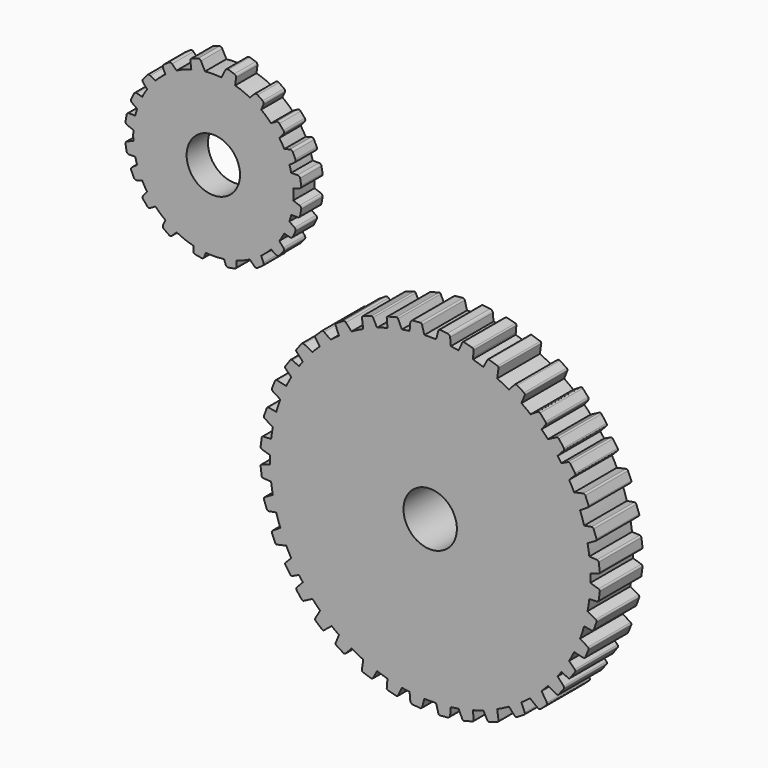
from build123d import *

# Parameters (mm, degrees)
F0_R     = 38.1
F0_R_2   = 6.35
F1_DEPTH = 12.7
F2_R     = 19.05
F2_R_2   = 6.35
F3_DEPTH = 6.35
F5_DEPTH = 12.7
F7_DEPTH = 6.35


with BuildPart() as f1:
    # F0 (on Front) → F1 (new body)
    with BuildSketch(Plane.XZ):
        Circle(F0_R)
        Circle(F0_R_2, mode=Mode.SUBTRACT)
    extrude(amount=F1_DEPTH)

    # F4 (on Front) → F5 (join)
    with BuildSketch(Plane.XZ):
        with BuildLine():
            ThreePointArc((-10.07119, 35.711777), (-9.928923, 35.465363), (-9.648711, 35.415954))
            Line((-9.648711, 35.415954), (-6.583277, 36.237335))
            ThreePointArc((-6.583277, 36.237335), (-6.365312, 36.42023), (-6.365312, 36.704764))
            Line((-6.365312, 36.704764), (-7.65398, 39.468323))
            ThreePointArc((-7.65398, 39.468323), (-7.816806, 39.631148), (-8.0462, 39.651218))
            Line((-8.0462, 39.651218), (-10.088725, 39.103925))
            ThreePointArc((-10.088725, 39.103925), (-10.277351, 38.971847), (-10.336949, 38.749423))
            Line((-10.336949, 38.749423), (-10.198242, 37.163988))
            Line((-10.198242, 37.163988), (-10.111322, 36.170487))
            Line((-10.111322, 36.170487), (-10.07119, 35.711777))
        make_face()
        with BuildLine():
            ThreePointArc((-15.827978, 33.884392), (-15.673064, 33.645726), (-15.390659, 33.610985))
            Line((-15.390659, 33.610985), (-12.372188, 34.590977))
            ThreePointArc((-12.372188, 34.590977), (-12.164048, 34.784981), (-12.178874, 35.069129))
            Line((-12.178874, 35.069129), (-13.60979, 37.761786))
            ThreePointArc((-13.60979, 37.761786), (-13.780879, 37.915906), (-14.011007, 37.923996))
            Line((-14.011007, 37.923996), (-16.02224, 37.271019))
            ThreePointArc((-16.02224, 37.271019), (-16.203728, 37.129292), (-16.251656, 36.904065))
            Line((-16.251656, 36.904065), (-15.827978, 33.884392))
        make_face()
        with BuildLine():
            ThreePointArc((-21.383831, 30.540698), (-21.12448, 30.300103), (-20.773465, 30.344126))
            Line((-20.773465, 30.344126), (-18.251786, 31.928953))
            ThreePointArc((-18.251786, 31.928953), (-18.059882, 32.226144), (-18.164189, 32.564181))
            Line((-18.164189, 32.564181), (-20.050726, 34.648498))
            ThreePointArc((-20.050726, 34.648498), (-20.355475, 34.809524), (-20.692432, 34.736988))
            Line((-20.692432, 34.736988), (-22.305773, 33.723034))
            ThreePointArc((-22.305773, 33.723034), (-22.481449, 33.496972), (-22.470716, 33.210876))
            Line((-22.470716, 33.210876), (-21.383831, 30.540698))
        make_face()
        with BuildLine():
            ThreePointArc((-29.815604, 22.550321), (-29.488942, 22.41452), (-29.174939, 22.577467))
            Line((-29.174939, 22.577467), (-27.358798, 24.938012))
            ThreePointArc((-27.358798, 24.938012), (-27.281785, 25.283292), (-27.496782, 25.564229))
            Line((-27.496782, 25.564229), (-30.052239, 26.898699))
            ThreePointArc((-30.052239, 26.898699), (-30.336039, 26.936433), (-30.577697, 26.782916))
            Line((-30.577697, 26.782916), (-31.78331, 25.21591))
            ThreePointArc((-31.78331, 25.21591), (-31.869753, 24.942975), (-31.760532, 24.678329))
            Line((-31.760532, 24.678329), (-29.815604, 22.550321))
        make_face()
        with BuildLine():
            ThreePointArc((-32.350165, 18.252706), (-32.017735, 18.131712), (-31.711366, 18.308594))
            Line((-31.711366, 18.308594), (-30.003057, 20.748312))
            ThreePointArc((-30.003057, 20.748312), (-29.941626, 21.096702), (-30.169022, 21.367702))
            Line((-30.169022, 21.367702), (-32.781825, 22.586072))
            ThreePointArc((-32.781825, 22.586072), (-33.067033, 22.611024), (-33.301555, 22.446811))
            Line((-33.301555, 22.446811), (-34.435585, 20.827247))
            ThreePointArc((-34.435585, 20.827247), (-34.509684, 20.550705), (-34.38869, 20.291231))
            Line((-34.38869, 20.291231), (-32.350165, 18.252706))
        make_face()
        with BuildLine():
            ThreePointArc((-36.866879, 6.781246), (-36.51446, 6.750413), (-36.264311, 7.000563))
            Line((-36.264311, 7.000563), (-35.245657, 9.799292))
            ThreePointArc((-35.245657, 9.799292), (-35.276489, 10.151711), (-35.566276, 10.354622))
            Line((-35.566276, 10.354622), (-38.405388, 10.855234))
            ThreePointArc((-38.405388, 10.855234), (-38.687336, 10.805518), (-38.871365, 10.586202))
            Line((-38.871365, 10.586202), (-39.54758, 8.728315))
            ThreePointArc((-39.54758, 8.728315), (-39.54758, 8.442017), (-39.363552, 8.222701))
            Line((-39.363552, 8.222701), (-36.866879, 6.781246))
        make_face()
        with BuildLine():
            ThreePointArc((-37.288886, 0.733598), (-36.93837, 0.78143), (-36.749704, 1.080687))
            Line((-36.749704, 1.080687), (-36.374907, 4.035356))
            ThreePointArc((-36.374907, 4.035356), (-36.482879, 4.372241), (-36.81035, 4.506075))
            Line((-36.81035, 4.506075), (-39.68989, 4.366719))
            ThreePointArc((-39.68989, 4.366719), (-39.953874, 4.255909), (-40.08487, 4.001338))
            Line((-40.08487, 4.001338), (-40.333673, 2.039934))
            ThreePointArc((-40.333673, 2.039934), (-40.270387, 1.760719), (-40.042431, 1.587507))
            Line((-40.042431, 1.587507), (-37.288886, 0.733598))
        make_face()
        with BuildLine():
            ThreePointArc((-35.057858, 13.062086), (-34.707093, 13.016113), (-34.446408, 13.255263))
            Line((-34.446408, 13.255263), (-33.308233, 16.007554))
            ThreePointArc((-33.308233, 16.007554), (-33.323869, 16.360973), (-33.604653, 16.576169))
            Line((-33.604653, 16.576169), (-36.419586, 17.198519))
            ThreePointArc((-36.419586, 17.198519), (-36.703413, 17.160986), (-36.896711, 16.949794))
            Line((-36.896711, 16.949794), (-37.652268, 15.122735))
            ThreePointArc((-37.652268, 15.122735), (-37.664591, 14.836703), (-37.490173, 14.609668))
            Line((-37.490173, 14.609668), (-35.057858, 13.062086))
        make_face()
        with BuildLine():
            ThreePointArc((-4.971879, 36.936362), (-4.850885, 36.603932), (-4.518455, 36.482938))
            Line((-4.518455, 36.482938), (-1.551443, 36.742518))
            ThreePointArc((-1.551443, 36.742518), (-1.245073, 36.9194), (-1.183643, 37.26779))
            Line((-1.183643, 37.26779), (-1.929795, 40.052467))
            ThreePointArc((-1.929795, 40.052467), (-2.094008, 40.286988), (-2.370551, 40.361087))
            Line((-2.370551, 40.361087), (-4.099498, 40.209824))
            ThreePointArc((-4.099498, 40.209824), (-4.537451, 40.005603), (-4.741671, 39.56765))
            Line((-4.741671, 39.56765), (-4.971879, 36.936362))
        make_face()
        with BuildLine():
            ThreePointArc((9.648711, 35.415954), (9.928923, 35.465363), (10.07119, 35.711777))
            Line((10.07119, 35.711777), (10.111322, 36.170487))
            Line((10.111322, 36.170487), (10.198242, 37.163988))
            Line((10.198242, 37.163988), (10.336949, 38.749423))
            ThreePointArc((10.336949, 38.749423), (10.277351, 38.971847), (10.088725, 39.103925))
            Line((10.088725, 39.103925), (8.0462, 39.651218))
            ThreePointArc((8.0462, 39.651218), (7.816806, 39.631148), (7.65398, 39.468323))
            Line((7.65398, 39.468323), (6.365312, 36.704764))
            ThreePointArc((6.365312, 36.704764), (6.365312, 36.42023), (6.583277, 36.237335))
            Line((6.583277, 36.237335), (9.648711, 35.415954))
        make_face()
        with BuildLine():
            ThreePointArc((2.370551, 40.361087), (2.094008, 40.286988), (1.929795, 40.052467))
            Line((1.929795, 40.052467), (1.183643, 37.26779))
            ThreePointArc((1.183643, 37.26779), (1.245073, 36.9194), (1.551443, 36.742518))
            Line((1.551443, 36.742518), (4.518455, 36.482938))
            ThreePointArc((4.518455, 36.482938), (4.850885, 36.603932), (4.971879, 36.936362))
            Line((4.971879, 36.936362), (4.741671, 39.56765))
            ThreePointArc((4.741671, 39.56765), (4.537451, 40.005603), (4.099498, 40.209824))
            Line((4.099498, 40.209824), (2.370551, 40.361087))
        make_face()
        with BuildLine():
            ThreePointArc((39.363552, 8.222701), (39.54758, 8.442017), (39.54758, 8.728315))
            Line((39.54758, 8.728315), (38.871365, 10.586202))
            ThreePointArc((38.871365, 10.586202), (38.687336, 10.805518), (38.405388, 10.855234))
            Line((38.405388, 10.855234), (35.566276, 10.354622))
            ThreePointArc((35.566276, 10.354622), (35.276489, 10.151711), (35.245657, 9.799292))
            Line((35.245657, 9.799292), (36.264311, 7.000563))
            ThreePointArc((36.264311, 7.000563), (36.51446, 6.750413), (36.866879, 6.781246))
            Line((36.866879, 6.781246), (39.363552, 8.222701))
        make_face()
        with BuildLine():
            ThreePointArc((31.711366, 18.308594), (32.017735, 18.131712), (32.350165, 18.252706))
            Line((32.350165, 18.252706), (34.38869, 20.291231))
            ThreePointArc((34.38869, 20.291231), (34.509684, 20.550705), (34.435585, 20.827247))
            Line((34.435585, 20.827247), (33.301555, 22.446811))
            ThreePointArc((33.301555, 22.446811), (33.067033, 22.611024), (32.781825, 22.586072))
            Line((32.781825, 22.586072), (30.169022, 21.367702))
            ThreePointArc((30.169022, 21.367702), (29.941626, 21.096702), (30.003057, 20.748312))
            Line((30.003057, 20.748312), (31.711366, 18.308594))
        make_face()
        with BuildLine():
            ThreePointArc((40.08487, 4.001338), (39.953874, 4.255909), (39.68989, 4.366719))
            Line((39.68989, 4.366719), (36.81035, 4.506075))
            ThreePointArc((36.81035, 4.506075), (36.482879, 4.372241), (36.374907, 4.035356))
            Line((36.374907, 4.035356), (36.749704, 1.080687))
            ThreePointArc((36.749704, 1.080687), (36.93837, 0.78143), (37.288886, 0.733598))
            Line((37.288886, 0.733598), (40.042431, 1.587507))
            ThreePointArc((40.042431, 1.587507), (40.270387, 1.760719), (40.333673, 2.039934))
            Line((40.333673, 2.039934), (40.08487, 4.001338))
        make_face()
        with BuildLine():
            ThreePointArc((31.760532, 24.678329), (31.869753, 24.942975), (31.78331, 25.21591))
            Line((31.78331, 25.21591), (30.577697, 26.782916))
            ThreePointArc((30.577697, 26.782916), (30.336039, 26.936433), (30.052239, 26.898699))
            Line((30.052239, 26.898699), (27.496782, 25.564229))
            ThreePointArc((27.496782, 25.564229), (27.281785, 25.283292), (27.358798, 24.938012))
            Line((27.358798, 24.938012), (29.174939, 22.577467))
            ThreePointArc((29.174939, 22.577467), (29.488942, 22.41452), (29.815604, 22.550321))
            Line((29.815604, 22.550321), (31.760532, 24.678329))
        make_face()
        with BuildLine():
            ThreePointArc((22.470716, 33.210876), (22.481449, 33.496972), (22.305773, 33.723034))
            Line((22.305773, 33.723034), (20.692432, 34.736988))
            ThreePointArc((20.692432, 34.736988), (20.355475, 34.809524), (20.050726, 34.648498))
            Line((20.050726, 34.648498), (18.164189, 32.564181))
            ThreePointArc((18.164189, 32.564181), (18.059882, 32.226144), (18.251786, 31.928953))
            Line((18.251786, 31.928953), (20.773465, 30.344126))
            ThreePointArc((20.773465, 30.344126), (21.12448, 30.300103), (21.383831, 30.540698))
            Line((21.383831, 30.540698), (22.470716, 33.210876))
        make_face()
        with BuildLine():
            ThreePointArc((14.011007, 37.923996), (13.780879, 37.915906), (13.60979, 37.761786))
            Line((13.60979, 37.761786), (12.178874, 35.069129))
            ThreePointArc((12.178874, 35.069129), (12.164048, 34.784981), (12.372188, 34.590977))
            Line((12.372188, 34.590977), (15.390659, 33.610985))
            ThreePointArc((15.390659, 33.610985), (15.673064, 33.645726), (15.827978, 33.884392))
            Line((15.827978, 33.884392), (16.251656, 36.904065))
            ThreePointArc((16.251656, 36.904065), (16.203728, 37.129292), (16.02224, 37.271019))
            Line((16.02224, 37.271019), (14.011007, 37.923996))
        make_face()
        with BuildLine():
            ThreePointArc((36.896711, 16.949794), (36.703413, 17.160986), (36.419586, 17.198519))
            Line((36.419586, 17.198519), (33.604653, 16.576169))
            ThreePointArc((33.604653, 16.576169), (33.323869, 16.360973), (33.308233, 16.007554))
            Line((33.308233, 16.007554), (34.446408, 13.255263))
            ThreePointArc((34.446408, 13.255263), (34.707093, 13.016113), (35.057858, 13.062086))
            Line((35.057858, 13.062086), (37.490173, 14.609668))
            ThreePointArc((37.490173, 14.609668), (37.664591, 14.836703), (37.652268, 15.122735))
            Line((37.652268, 15.122735), (36.896711, 16.949794))
        make_face()
        with BuildLine():
            Line((10.198242, -37.163988), (10.111322, -36.170487))
            Line((10.111322, -36.170487), (10.07119, -35.711777))
            ThreePointArc((10.07119, -35.711777), (9.928923, -35.465363), (9.648711, -35.415954))
            Line((9.648711, -35.415954), (6.583277, -36.237335))
            ThreePointArc((6.583277, -36.237335), (6.365312, -36.42023), (6.365312, -36.704764))
            Line((6.365312, -36.704764), (7.65398, -39.468323))
            ThreePointArc((7.65398, -39.468323), (7.816806, -39.631148), (8.0462, -39.651218))
            Line((8.0462, -39.651218), (10.088725, -39.103925))
            ThreePointArc((10.088725, -39.103925), (10.277351, -38.971847), (10.336949, -38.749423))
            Line((10.336949, -38.749423), (10.198242, -37.163988))
        make_face()
        with BuildLine():
            ThreePointArc((-9.648711, -35.415954), (-9.928923, -35.465363), (-10.07119, -35.711777))
            Line((-10.07119, -35.711777), (-10.111322, -36.170487))
            Line((-10.111322, -36.170487), (-10.198242, -37.163988))
            Line((-10.198242, -37.163988), (-10.336949, -38.749423))
            ThreePointArc((-10.336949, -38.749423), (-10.277351, -38.971847), (-10.088725, -39.103925))
            Line((-10.088725, -39.103925), (-8.0462, -39.651218))
            ThreePointArc((-8.0462, -39.651218), (-7.816806, -39.631148), (-7.65398, -39.468323))
            Line((-7.65398, -39.468323), (-6.365312, -36.704764))
            ThreePointArc((-6.365312, -36.704764), (-6.365312, -36.42023), (-6.583277, -36.237335))
            Line((-6.583277, -36.237335), (-9.648711, -35.415954))
        make_face()
        with BuildLine():
            Line((14.011007, -37.923996), (16.02224, -37.271019))
            ThreePointArc((16.02224, -37.271019), (16.203728, -37.129292), (16.251656, -36.904065))
            Line((16.251656, -36.904065), (15.827978, -33.884392))
            ThreePointArc((15.827978, -33.884392), (15.673064, -33.645726), (15.390659, -33.610985))
            Line((15.390659, -33.610985), (12.372188, -34.590977))
            ThreePointArc((12.372188, -34.590977), (12.164048, -34.784981), (12.178874, -35.069129))
            Line((12.178874, -35.069129), (13.60979, -37.761786))
            ThreePointArc((13.60979, -37.761786), (13.780879, -37.915906), (14.011007, -37.923996))
        make_face()
        with BuildLine():
            ThreePointArc((-30.169022, -21.367702), (-29.941626, -21.096702), (-30.003057, -20.748312))
            Line((-30.003057, -20.748312), (-31.711366, -18.308594))
            ThreePointArc((-31.711366, -18.308594), (-32.017735, -18.131712), (-32.350165, -18.252706))
            Line((-32.350165, -18.252706), (-34.38869, -20.291231))
            ThreePointArc((-34.38869, -20.291231), (-34.509684, -20.550705), (-34.435585, -20.827247))
            Line((-34.435585, -20.827247), (-33.301555, -22.446811))
            ThreePointArc((-33.301555, -22.446811), (-33.067033, -22.611024), (-32.781825, -22.586072))
            Line((-32.781825, -22.586072), (-30.169022, -21.367702))
        make_face()
        with BuildLine():
            ThreePointArc((-36.896711, -16.949794), (-36.703413, -17.160986), (-36.419586, -17.198519))
            Line((-36.419586, -17.198519), (-33.604653, -16.576169))
            ThreePointArc((-33.604653, -16.576169), (-33.323869, -16.360973), (-33.308233, -16.007554))
            Line((-33.308233, -16.007554), (-34.446408, -13.255263))
            ThreePointArc((-34.446408, -13.255263), (-34.707093, -13.016113), (-35.057858, -13.062086))
            Line((-35.057858, -13.062086), (-37.490173, -14.609668))
            ThreePointArc((-37.490173, -14.609668), (-37.664591, -14.836703), (-37.652268, -15.122735))
            Line((-37.652268, -15.122735), (-36.896711, -16.949794))
        make_face()
        with BuildLine():
            ThreePointArc((-1.183643, -37.26779), (-1.245073, -36.9194), (-1.551443, -36.742518))
            Line((-1.551443, -36.742518), (-4.518455, -36.482938))
            ThreePointArc((-4.518455, -36.482938), (-4.850885, -36.603932), (-4.971879, -36.936362))
            Line((-4.971879, -36.936362), (-4.741671, -39.56765))
            ThreePointArc((-4.741671, -39.56765), (-4.537451, -40.005603), (-4.099498, -40.209824))
            Line((-4.099498, -40.209824), (-2.370551, -40.361087))
            ThreePointArc((-2.370551, -40.361087), (-2.094008, -40.286988), (-1.929795, -40.052467))
            Line((-1.929795, -40.052467), (-1.183643, -37.26779))
        make_face()
        with BuildLine():
            Line((36.896711, -16.949794), (37.652268, -15.122735))
            ThreePointArc((37.652268, -15.122735), (37.664591, -14.836703), (37.490173, -14.609668))
            Line((37.490173, -14.609668), (35.057858, -13.062086))
            ThreePointArc((35.057858, -13.062086), (34.707093, -13.016113), (34.446408, -13.255263))
            Line((34.446408, -13.255263), (33.308233, -16.007554))
            ThreePointArc((33.308233, -16.007554), (33.323869, -16.360973), (33.604653, -16.576169))
            Line((33.604653, -16.576169), (36.419586, -17.198519))
            ThreePointArc((36.419586, -17.198519), (36.703413, -17.160986), (36.896711, -16.949794))
        make_face()
        with BuildLine():
            Line((1.183643, -37.26779), (1.929795, -40.052467))
            ThreePointArc((1.929795, -40.052467), (2.094008, -40.286988), (2.370551, -40.361087))
            Line((2.370551, -40.361087), (4.099498, -40.209824))
            ThreePointArc((4.099498, -40.209824), (4.537451, -40.005603), (4.741671, -39.56765))
            Line((4.741671, -39.56765), (4.971879, -36.936362))
            ThreePointArc((4.971879, -36.936362), (4.850885, -36.603932), (4.518455, -36.482938))
            Line((4.518455, -36.482938), (1.551443, -36.742518))
            ThreePointArc((1.551443, -36.742518), (1.245073, -36.9194), (1.183643, -37.26779))
        make_face()
        with BuildLine():
            ThreePointArc((-16.251656, -36.904065), (-16.203728, -37.129292), (-16.02224, -37.271019))
            Line((-16.02224, -37.271019), (-14.011007, -37.923996))
            ThreePointArc((-14.011007, -37.923996), (-13.780879, -37.915906), (-13.60979, -37.761786))
            Line((-13.60979, -37.761786), (-12.178874, -35.069129))
            ThreePointArc((-12.178874, -35.069129), (-12.164048, -34.784981), (-12.372188, -34.590977))
            Line((-12.372188, -34.590977), (-15.390659, -33.610985))
            ThreePointArc((-15.390659, -33.610985), (-15.673064, -33.645726), (-15.827978, -33.884392))
            Line((-15.827978, -33.884392), (-16.251656, -36.904065))
        make_face()
        with BuildLine():
            Line((38.871365, -10.586202), (39.54758, -8.728315))
            ThreePointArc((39.54758, -8.728315), (39.54758, -8.442017), (39.363552, -8.222701))
            Line((39.363552, -8.222701), (36.866879, -6.781246))
            ThreePointArc((36.866879, -6.781246), (36.51446, -6.750413), (36.264311, -7.000563))
            Line((36.264311, -7.000563), (35.245657, -9.799292))
            ThreePointArc((35.245657, -9.799292), (35.276489, -10.151711), (35.566276, -10.354622))
            Line((35.566276, -10.354622), (38.405388, -10.855234))
            ThreePointArc((38.405388, -10.855234), (38.687336, -10.805518), (38.871365, -10.586202))
        make_face()
        with BuildLine():
            Line((29.174939, -22.577467), (27.358798, -24.938012))
            ThreePointArc((27.358798, -24.938012), (27.281785, -25.283292), (27.496782, -25.564229))
            Line((27.496782, -25.564229), (30.052239, -26.898699))
            ThreePointArc((30.052239, -26.898699), (30.336039, -26.936433), (30.577697, -26.782916))
            Line((30.577697, -26.782916), (31.78331, -25.21591))
            ThreePointArc((31.78331, -25.21591), (31.869753, -24.942975), (31.760532, -24.678329))
            Line((31.760532, -24.678329), (29.815604, -22.550321))
            ThreePointArc((29.815604, -22.550321), (29.488942, -22.41452), (29.174939, -22.577467))
        make_face()
        with BuildLine():
            ThreePointArc((-38.871365, -10.586202), (-38.687336, -10.805518), (-38.405388, -10.855234))
            Line((-38.405388, -10.855234), (-35.566276, -10.354622))
            ThreePointArc((-35.566276, -10.354622), (-35.276489, -10.151711), (-35.245657, -9.799292))
            Line((-35.245657, -9.799292), (-36.264311, -7.000563))
            ThreePointArc((-36.264311, -7.000563), (-36.51446, -6.750413), (-36.866879, -6.781246))
            Line((-36.866879, -6.781246), (-39.363552, -8.222701))
            ThreePointArc((-39.363552, -8.222701), (-39.54758, -8.442017), (-39.54758, -8.728315))
            Line((-39.54758, -8.728315), (-38.871365, -10.586202))
        make_face()
        with BuildLine():
            Line((34.38869, -20.291231), (32.350165, -18.252706))
            ThreePointArc((32.350165, -18.252706), (32.017735, -18.131712), (31.711366, -18.308594))
            Line((31.711366, -18.308594), (30.003057, -20.748312))
            ThreePointArc((30.003057, -20.748312), (29.941626, -21.096702), (30.169022, -21.367702))
            Line((30.169022, -21.367702), (32.781825, -22.586072))
            ThreePointArc((32.781825, -22.586072), (33.067033, -22.611024), (33.301555, -22.446811))
            Line((33.301555, -22.446811), (34.435585, -20.827247))
            ThreePointArc((34.435585, -20.827247), (34.509684, -20.550705), (34.38869, -20.291231))
        make_face()
        with BuildLine():
            Line((20.773465, -30.344126), (18.251786, -31.928953))
            ThreePointArc((18.251786, -31.928953), (18.059882, -32.226144), (18.164189, -32.564181))
            Line((18.164189, -32.564181), (20.050726, -34.648498))
            ThreePointArc((20.050726, -34.648498), (20.355475, -34.809524), (20.692432, -34.736988))
            Line((20.692432, -34.736988), (22.305773, -33.723034))
            ThreePointArc((22.305773, -33.723034), (22.481449, -33.496972), (22.470716, -33.210876))
            Line((22.470716, -33.210876), (21.383831, -30.540698))
            ThreePointArc((21.383831, -30.540698), (21.12448, -30.300103), (20.773465, -30.344126))
        make_face()
        with BuildLine():
            Line((36.81035, -4.506075), (39.68989, -4.366719))
            ThreePointArc((39.68989, -4.366719), (39.953874, -4.255909), (40.08487, -4.001338))
            Line((40.08487, -4.001338), (40.333673, -2.039934))
            ThreePointArc((40.333673, -2.039934), (40.270387, -1.760719), (40.042431, -1.587507))
            Line((40.042431, -1.587507), (37.288886, -0.733598))
            ThreePointArc((37.288886, -0.733598), (36.93837, -0.78143), (36.749704, -1.080687))
            Line((36.749704, -1.080687), (36.374907, -4.035356))
            ThreePointArc((36.374907, -4.035356), (36.482879, -4.372241), (36.81035, -4.506075))
        make_face()
        with BuildLine():
            ThreePointArc((-22.470716, -33.210876), (-22.481449, -33.496972), (-22.305773, -33.723034))
            Line((-22.305773, -33.723034), (-20.692432, -34.736988))
            ThreePointArc((-20.692432, -34.736988), (-20.355475, -34.809524), (-20.050726, -34.648498))
            Line((-20.050726, -34.648498), (-18.164189, -32.564181))
            ThreePointArc((-18.164189, -32.564181), (-18.059882, -32.226144), (-18.251786, -31.928953))
            Line((-18.251786, -31.928953), (-20.773465, -30.344126))
            ThreePointArc((-20.773465, -30.344126), (-21.12448, -30.300103), (-21.383831, -30.540698))
            Line((-21.383831, -30.540698), (-22.470716, -33.210876))
        make_face()
        with BuildLine():
            ThreePointArc((-30.577697, -26.782916), (-30.336039, -26.936433), (-30.052239, -26.898699))
            Line((-30.052239, -26.898699), (-27.496782, -25.564229))
            ThreePointArc((-27.496782, -25.564229), (-27.281785, -25.283292), (-27.358798, -24.938012))
            Line((-27.358798, -24.938012), (-29.174939, -22.577467))
            ThreePointArc((-29.174939, -22.577467), (-29.488942, -22.41452), (-29.815604, -22.550321))
            Line((-29.815604, -22.550321), (-31.760532, -24.678329))
            ThreePointArc((-31.760532, -24.678329), (-31.869753, -24.942975), (-31.78331, -25.21591))
            Line((-31.78331, -25.21591), (-30.577697, -26.782916))
        make_face()
        with BuildLine():
            ThreePointArc((-40.042431, -1.587507), (-40.270387, -1.760719), (-40.333673, -2.039934))
            Line((-40.333673, -2.039934), (-40.08487, -4.001338))
            ThreePointArc((-40.08487, -4.001338), (-39.953874, -4.255909), (-39.68989, -4.366719))
            Line((-39.68989, -4.366719), (-36.81035, -4.506075))
            ThreePointArc((-36.81035, -4.506075), (-36.482879, -4.372241), (-36.374907, -4.035356))
            Line((-36.374907, -4.035356), (-36.749704, -1.080687))
            ThreePointArc((-36.749704, -1.080687), (-36.93837, -0.78143), (-37.288886, -0.733598))
            Line((-37.288886, -0.733598), (-40.042431, -1.587507))
        make_face()
        with BuildLine():
            ThreePointArc((-25.662943, 26.669052), (-25.358185, 26.48941), (-25.024675, 26.607396))
            Line((-25.024675, 26.607396), (-22.899728, 28.694295))
            ThreePointArc((-22.899728, 28.694295), (-22.775736, 29.025618), (-22.949843, 29.333573))
            Line((-22.949843, 29.333573), (-25.238064, 30.966804))
            ThreePointArc((-25.238064, 30.966804), (-25.570176, 31.059016), (-25.883861, 30.916178))
            Line((-25.883861, 30.916178), (-27.243377, 29.581005))
            ThreePointArc((-27.243377, 29.581005), (-27.366711, 29.322635), (-27.295112, 29.045434))
            Line((-27.295112, 29.045434), (-25.662943, 26.669052))
        make_face()
        with BuildLine():
            ThreePointArc((23.160843, 29.240651), (22.968939, 28.943461), (23.073247, 28.605423))
            Line((23.073247, 28.605423), (25.071882, 26.397256))
            ThreePointArc((25.071882, 26.397256), (25.397881, 26.259874), (25.71267, 26.421297))
            Line((25.71267, 26.421297), (27.437728, 28.64111))
            ThreePointArc((27.437728, 28.64111), (27.543388, 28.969192), (27.413442, 29.288434))
            Line((27.413442, 29.288434), (26.134739, 30.701193))
            ThreePointArc((26.134739, 30.701193), (25.881605, 30.834946), (25.601719, 30.774695))
            Line((25.601719, 30.774695), (23.160843, 29.240651))
        make_face()
        with BuildLine():
            ThreePointArc((26.223447, -26.981848), (25.926256, -26.789944), (25.588219, -26.894252))
            Line((25.588219, -26.894252), (23.380052, -28.892886))
            ThreePointArc((23.380052, -28.892886), (23.24267, -29.218886), (23.404092, -29.533675))
            Line((23.404092, -29.533675), (25.623906, -31.258732))
            ThreePointArc((25.623906, -31.258732), (25.951987, -31.364393), (26.271229, -31.234447))
            Line((26.271229, -31.234447), (27.683988, -29.955744))
            ThreePointArc((27.683988, -29.955744), (27.817741, -29.70261), (27.75749, -29.422724))
            Line((27.75749, -29.422724), (26.223447, -26.981848))
        make_face()
        with BuildLine():
            ThreePointArc((-22.981446, -29.641073), (-22.828086, -29.322278), (-22.97372, -28.999881))
            Line((-22.97372, -28.999881), (-25.232032, -27.058085))
            ThreePointArc((-25.232032, -27.058085), (-25.572614, -26.962414), (-25.864825, -27.161818))
            Line((-25.864825, -27.161818), (-27.299707, -29.579361))
            ThreePointArc((-27.299707, -29.579361), (-27.363645, -29.918054), (-27.194916, -30.218607))
            Line((-27.194916, -30.218607), (-25.750075, -31.460945))
            ThreePointArc((-25.750075, -31.460945), (-25.482242, -31.562099), (-25.21205, -31.467428))
            Line((-25.21205, -31.467428), (-22.981446, -29.641073))
        make_face()
    extrude(amount=F5_DEPTH)


with BuildPart() as f3:
    # F2 (on Front) → F3 (new body)
    with BuildSketch(Plane.XZ):
        with Locations((-56.665435, 53.125743)):
            Circle(F2_R)
        with Locations((-56.665435, 53.125743)):
            Circle(F2_R_2, mode=Mode.SUBTRACT)
    extrude(amount=F3_DEPTH)

    # F6 (on Front) → F7 (join)
    with BuildSketch(Plane.XZ):
        with BuildLine():
            ThreePointArc((-67.474954, 67.454857), (-66.209953, 68.358628), (-64.870916, 69.148572))
            ThreePointArc((-64.870916, 69.148572), (-64.889384, 69.429421), (-65.035413, 69.670031))
            Line((-65.035413, 69.670031), (-66.472254, 71.106871))
            ThreePointArc((-66.472254, 71.106871), (-66.839418, 71.278083), (-67.230734, 71.17323))
            Line((-67.230734, 71.17323), (-68.440502, 70.326141))
            ThreePointArc((-68.440502, 70.326141), (-68.67287, 69.994286), (-68.637561, 69.590707))
            Line((-68.637561, 69.590707), (-67.778801, 67.749089))
            ThreePointArc((-67.778801, 67.749089), (-67.654039, 67.573924), (-67.474954, 67.454857))
        make_face()
        with BuildLine():
            ThreePointArc((-72.036824, 63.394092), (-71.733725, 63.201999), (-71.375343, 63.220184))
            ThreePointArc((-71.375343, 63.220184), (-70.529573, 64.398278), (-69.590706, 65.503612))
            ThreePointArc((-69.590706, 65.503612), (-69.682146, 65.767164), (-69.884091, 65.95962))
            Line((-69.884091, 65.95962), (-71.643854, 66.97562))
            ThreePointArc((-71.643854, 66.97562), (-72.04282, 67.045968), (-72.393665, 66.843408))
            Line((-72.393665, 66.843408), (-73.342969, 65.712072))
            ThreePointArc((-73.342969, 65.712072), (-73.481528, 65.331383), (-73.342969, 64.950694))
            Line((-73.342969, 64.950694), (-72.036824, 63.394092))
        make_face()
        with BuildLine():
            ThreePointArc((-74.320324, 58.671307), (-73.82734, 58.584381), (-73.443867, 58.906153))
            ThreePointArc((-73.443867, 58.906153), (-73.006685, 60.110183), (-72.484048, 61.279656))
            ThreePointArc((-72.484048, 61.279656), (-72.636487, 61.550313), (-72.90495, 61.706585))
            Line((-72.90495, 61.706585), (-74.867712, 62.232506))
            ThreePointArc((-74.867712, 62.232506), (-75.271291, 62.197197), (-75.557754, 61.910733))
            Line((-75.557754, 61.910733), (-76.1819, 60.572249))
            ThreePointArc((-76.1819, 60.572249), (-76.217209, 60.16867), (-75.984841, 59.836815))
            Line((-75.984841, 59.836815), (-74.320324, 58.671307))
        make_face()
        with BuildLine():
            ThreePointArc((-77.546129, 55.478462), (-77.475781, 55.079496), (-77.16544, 54.81909))
            Line((-77.16544, 54.81909), (-75.255985, 54.124105))
            ThreePointArc((-75.255985, 54.124105), (-74.757301, 54.167734), (-74.470175, 54.577792))
            Line((-74.470175, 54.577792), (-74.091178, 56.727195))
            ThreePointArc((-74.091178, 56.727195), (-74.22074, 57.210726), (-74.674427, 57.422284))
            Line((-74.674427, 57.422284), (-76.706427, 57.422284))
            ThreePointArc((-76.706427, 57.422284), (-77.087116, 57.283725), (-77.289676, 56.93288))
            Line((-77.289676, 56.93288), (-77.546129, 55.478462))
        make_face()
        with BuildLine():
            ThreePointArc((-77.16544, 51.403502), (-77.475781, 51.143096), (-77.546129, 50.74413))
            Line((-77.546129, 50.74413), (-77.289676, 49.289712))
            ThreePointArc((-77.289676, 49.289712), (-77.087116, 48.938868), (-76.706427, 48.800308))
            Line((-76.706427, 48.800308), (-74.674427, 48.800308))
            ThreePointArc((-74.674427, 48.800308), (-74.22074, 49.011866), (-74.091178, 49.495398))
            Line((-74.091178, 49.495398), (-74.470175, 51.6448))
            ThreePointArc((-74.470175, 51.6448), (-74.757301, 52.054858), (-75.255985, 52.098487))
            Line((-75.255985, 52.098487), (-77.16544, 51.403502))
        make_face()
        with BuildLine():
            Line((-74.320324, 47.551285), (-75.984841, 46.385778))
            ThreePointArc((-75.984841, 46.385778), (-76.217209, 46.053922), (-76.1819, 45.650343))
            Line((-76.1819, 45.650343), (-75.557754, 44.311859))
            ThreePointArc((-75.557754, 44.311859), (-75.271291, 44.025395), (-74.867712, 43.990087))
            Line((-74.867712, 43.990087), (-72.90495, 44.516007))
            ThreePointArc((-72.90495, 44.516007), (-72.521477, 44.837779), (-72.521477, 45.338368))
            Line((-72.521477, 45.338368), (-73.443867, 47.316439))
            ThreePointArc((-73.443867, 47.316439), (-73.82734, 47.638211), (-74.320324, 47.551285))
        make_face()
        with BuildLine():
            ThreePointArc((-71.129449, 42.8285), (-71.583137, 43.040058), (-72.036824, 42.8285))
            Line((-72.036824, 42.8285), (-73.342969, 41.271898))
            ThreePointArc((-73.342969, 41.271898), (-73.481528, 40.891209), (-73.342969, 40.51052))
            Line((-73.342969, 40.51052), (-72.393665, 39.379184))
            ThreePointArc((-72.393665, 39.379184), (-72.04282, 39.176624), (-71.643854, 39.246972))
            Line((-71.643854, 39.246972), (-69.884091, 40.262972))
            ThreePointArc((-69.884091, 40.262972), (-69.596965, 40.673031), (-69.726527, 41.156562))
            Line((-69.726527, 41.156562), (-71.129449, 42.8285))
        make_face()
        with BuildLine():
            ThreePointArc((-65.035413, 36.552562), (-64.864201, 37.022961), (-65.114496, 37.456484))
            Line((-65.114496, 37.456484), (-66.902344, 38.708349))
            ThreePointArc((-66.902344, 38.708349), (-67.395328, 38.795275), (-67.778801, 38.473503))
            Line((-67.778801, 38.473503), (-68.637561, 36.631886))
            ThreePointArc((-68.637561, 36.631886), (-68.67287, 36.228307), (-68.440502, 35.896451))
            Line((-68.440502, 35.896451), (-67.230734, 35.049362))
            ThreePointArc((-67.230734, 35.049362), (-66.839418, 34.944509), (-66.472254, 35.115721))
            Line((-66.472254, 35.115721), (-65.035413, 36.552562))
        make_face()
        with BuildLine():
            ThreePointArc((-51.754728, 36.282014), (-52.977541, 35.989516), (-54.21795, 35.784066))
            ThreePointArc((-54.21795, 35.784066), (-54.424841, 35.480468), (-54.41288, 35.113272))
            Line((-54.41288, 35.113272), (-53.720068, 33.203028))
            ThreePointArc((-53.720068, 33.203028), (-53.460014, 32.892391), (-53.061129, 32.821589))
            Line((-53.061129, 32.821589), (-51.606421, 33.076387))
            ThreePointArc((-51.606421, 33.076387), (-51.255346, 33.278548), (-51.116353, 33.659079))
            Line((-51.116353, 33.659079), (-51.114042, 35.691078))
            ThreePointArc((-51.114042, 35.691078), (-51.30475, 36.127095), (-51.754728, 36.282014))
        make_face()
        with BuildLine():
            Line((-46.141368, 35.001035), (-44.927731, 35.84257))
            ThreePointArc((-44.927731, 35.84257), (-44.693844, 36.173358), (-44.727303, 36.577094))
            Line((-44.727303, 36.577094), (-45.577614, 38.422628))
            ThreePointArc((-45.577614, 38.422628), (-45.959609, 38.746154), (-46.452985, 38.661488))
            Line((-46.452985, 38.661488), (-48.246553, 37.41783))
            ThreePointArc((-48.246553, 37.41783), (-48.498831, 36.985459), (-48.329778, 36.51428))
            Line((-48.329778, 36.51428), (-46.899537, 35.070869))
            ThreePointArc((-46.899537, 35.070869), (-46.533161, 34.897977), (-46.141368, 35.001035))
        make_face()
        with BuildLine():
            Line((-40.958648, 39.30715), (-40.004169, 40.434123))
            ThreePointArc((-40.004169, 40.434123), (-39.863866, 40.814173), (-40.00068, 41.195493))
            Line((-40.00068, 41.195493), (-41.299676, 42.758065))
            ThreePointArc((-41.299676, 42.758065), (-41.752389, 42.9717), (-42.207042, 42.762223))
            Line((-42.207042, 42.762223), (-43.617612, 41.096732))
            ThreePointArc((-43.617612, 41.096732), (-43.749389, 40.6138), (-43.464145, 40.20243))
            Line((-43.464145, 40.20243), (-41.709057, 39.178376))
            ThreePointArc((-41.709057, 39.178376), (-41.310417, 39.106199), (-40.958648, 39.30715))
        make_face()
        with BuildLine():
            ThreePointArc((-38.994556, 47.470335), (-39.388927, 47.576676), (-39.758349, 47.402422))
            ThreePointArc((-39.758349, 47.402422), (-40.261361, 46.156173), (-40.856965, 44.951425))
            ThreePointArc((-40.856965, 44.951425), (-40.719279, 44.629485), (-40.423825, 44.441575))
            Line((-40.423825, 44.441575), (-38.463495, 43.906665))
            ThreePointArc((-38.463495, 43.906665), (-38.059758, 43.940123), (-37.771985, 44.225271))
            Line((-37.771985, 44.225271), (-37.141712, 45.560881))
            ThreePointArc((-37.141712, 45.560881), (-37.104554, 45.964294), (-37.335398, 46.297211))
            Line((-37.335398, 46.297211), (-38.994556, 47.470335))
        make_face()
        with BuildLine():
            ThreePointArc((-38.038065, 52.013201), (-38.48112, 51.99995), (-38.790892, 51.682907))
            ThreePointArc((-38.790892, 51.682907), (-38.959017, 50.436159), (-39.214781, 49.2044))
            ThreePointArc((-39.214781, 49.2044), (-39.012688, 48.856259), (-38.634732, 48.717722))
            Line((-38.634732, 48.717722), (-36.602754, 48.708409))
            ThreePointArc((-36.602754, 48.708409), (-36.221434, 48.845222), (-36.017267, 49.195135))
            Line((-36.017267, 49.195135), (-35.754151, 50.648362))
            ThreePointArc((-35.754151, 50.648362), (-35.822671, 51.047646), (-36.131814, 51.309472))
            Line((-36.131814, 51.309472), (-38.038065, 52.013201))
        make_face()
        with BuildLine():
            ThreePointArc((-39.117783, 57.251435), (-38.868417, 55.848767), (-38.732023, 54.430649))
            ThreePointArc((-38.732023, 54.430649), (-38.423079, 54.200726), (-38.038065, 54.209391))
            Line((-38.038065, 54.209391), (-36.131814, 54.91312))
            ThreePointArc((-36.131814, 54.91312), (-35.822671, 55.174946), (-35.754151, 55.574231))
            Line((-35.754151, 55.574231), (-36.017267, 57.027457))
            ThreePointArc((-36.017267, 57.027457), (-36.221434, 57.37737), (-36.602754, 57.514183))
            Line((-36.602754, 57.514183), (-38.634732, 57.504871))
            ThreePointArc((-38.634732, 57.504871), (-38.907173, 57.437078), (-39.117783, 57.251435))
        make_face()
        with BuildLine():
            ThreePointArc((-40.69611, 61.618817), (-40.026116, 60.168295), (-39.488891, 58.663537))
            ThreePointArc((-39.488891, 58.663537), (-39.231853, 58.652903), (-38.994556, 58.752258))
            Line((-38.994556, 58.752258), (-37.335398, 59.925381))
            ThreePointArc((-37.335398, 59.925381), (-37.104554, 60.258298), (-37.141712, 60.661711))
            Line((-37.141712, 60.661711), (-37.771985, 61.997321))
            ThreePointArc((-37.771985, 61.997321), (-38.059758, 62.282469), (-38.463495, 62.315928))
            Line((-38.463495, 62.315928), (-40.423825, 61.781017))
            ThreePointArc((-40.423825, 61.781017), (-40.571019, 61.718469), (-40.69611, 61.618817))
        make_face()
        with BuildLine():
            ThreePointArc((-43.687407, 65.788894), (-42.61559, 64.570075), (-41.659247, 63.258695))
            ThreePointArc((-41.659247, 63.258695), (-41.460876, 63.329143), (-41.299676, 63.464527))
            Line((-41.299676, 63.464527), (-40.00068, 65.0271))
            ThreePointArc((-40.00068, 65.0271), (-39.863866, 65.40842), (-40.004169, 65.788469))
            Line((-40.004169, 65.788469), (-40.958648, 66.915443))
            ThreePointArc((-40.958648, 66.915443), (-41.310417, 67.116393), (-41.709057, 67.044217))
            Line((-41.709057, 67.044217), (-43.464145, 66.020162))
            ThreePointArc((-43.464145, 66.020162), (-43.591767, 65.919965), (-43.687407, 65.788894))
        make_face()
        with BuildLine():
            ThreePointArc((-48.329778, 69.708312), (-48.447946, 69.537178), (-48.499669, 69.335745))
            ThreePointArc((-48.499669, 69.335745), (-47.072566, 68.53289), (-45.725277, 67.602294))
            ThreePointArc((-45.725277, 67.602294), (-45.641038, 67.693354), (-45.577614, 67.799964))
            Line((-45.577614, 67.799964), (-44.727303, 69.645498))
            ThreePointArc((-44.727303, 69.645498), (-44.693844, 70.049235), (-44.927731, 70.380022))
            Line((-44.927731, 70.380022), (-46.141368, 71.221557))
            ThreePointArc((-46.141368, 71.221557), (-46.533161, 71.324616), (-46.899537, 71.151723))
            Line((-46.899537, 71.151723), (-48.329778, 69.708312))
        make_face()
        with BuildLine():
            Line((-54.356053, 71.318555), (-52.911309, 70.870786))
            ThreePointArc((-52.911309, 70.870786), (-52.449485, 70.769187), (-51.990523, 70.655357))
            ThreePointArc((-51.990523, 70.655357), (-51.666257, 70.830605), (-51.508444, 71.163705))
            Line((-51.508444, 71.163705), (-51.253073, 73.179595))
            ThreePointArc((-51.253073, 73.179595), (-51.34269, 73.574679), (-51.665297, 73.819725))
            Line((-51.665297, 73.819725), (-53.075953, 74.256929))
            ThreePointArc((-53.075953, 74.256929), (-53.480597, 74.237279), (-53.777941, 73.962125))
            Line((-53.777941, 73.962125), (-54.707387, 72.155151))
            ThreePointArc((-54.707387, 72.155151), (-54.726775, 71.654938), (-54.356053, 71.318555))
        make_face()
        with BuildLine():
            ThreePointArc((-61.718771, 73.796687), (-62.040251, 73.550165), (-62.128057, 73.154674))
            Line((-62.128057, 73.154674), (-61.863449, 71.139976))
            ThreePointArc((-61.863449, 71.139976), (-61.594613, 70.717701), (-61.098327, 70.652208))
            Line((-61.098327, 70.652208), (-59.01658, 71.307875))
            ThreePointArc((-59.01658, 71.307875), (-58.647404, 71.645954), (-58.669085, 72.146073))
            Line((-58.669085, 72.146073), (-59.606802, 73.948768))
            ThreePointArc((-59.606802, 73.948768), (-59.905404, 74.222556), (-60.310134, 74.240352))
            Line((-60.310134, 74.240352), (-61.718771, 73.796687))
        make_face()
        with BuildLine():
            ThreePointArc((-58.393527, 35.737092), (-59.662613, 35.918961), (-60.915317, 36.191704))
            ThreePointArc((-60.915317, 36.191704), (-61.282349, 35.995007), (-61.429185, 35.60534))
            Line((-61.429185, 35.60534), (-61.431497, 33.573341))
            ThreePointArc((-61.431497, 33.573341), (-61.29337, 33.192495), (-60.942756, 32.989535))
            Line((-60.942756, 32.989535), (-59.488631, 32.731428))
            ThreePointArc((-59.488631, 32.731428), (-59.089586, 32.801323), (-58.828826, 33.111367))
            Line((-58.828826, 33.111367), (-58.13167, 35.02003))
            ThreePointArc((-58.13167, 35.02003), (-58.131656, 35.426379), (-58.393527, 35.737092))
        make_face()
    extrude(amount=F7_DEPTH)


solid = Compound([f1.part, f3.part])
